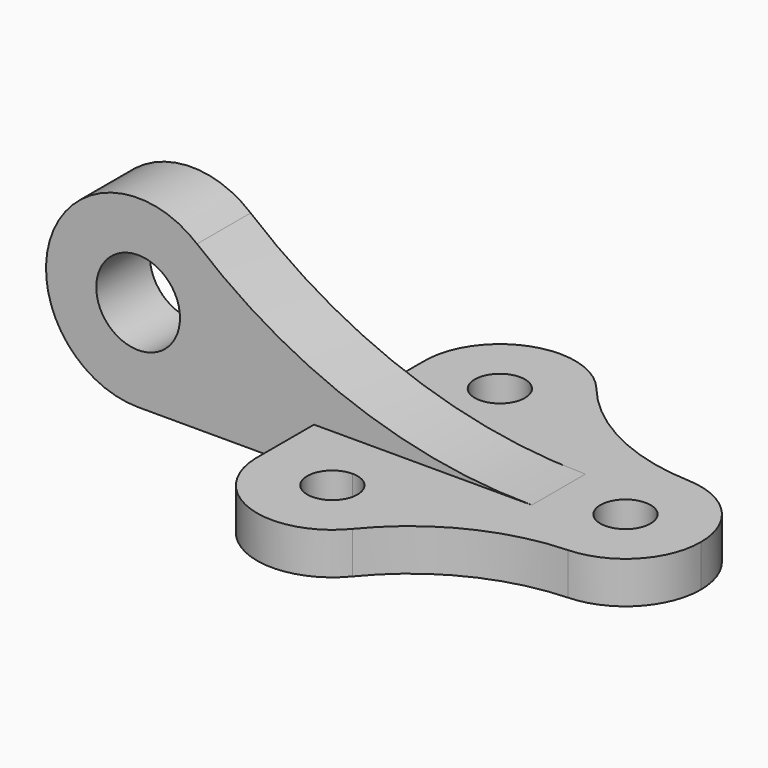
from build123d import *

# Parameters (mm, degrees)
F1_DEPTH = 10
F2_R     = 10
F3_DEPTH = 8


with BuildPart() as f1:
    # F0 (on Top) → F1 (new body)
    with BuildSketch(Plane.XY):
        with BuildLine():
            ThreePointArc((6, 0), (0, 6), (-6, 0))
            ThreePointArc((-6, 0), (0, -6), (6, 0))
        make_face()
        with BuildLine():
            ThreePointArc((0.720724, -17.985565), (12.980236, -12.470505), (18, 0))
            ThreePointArc((18, 0), (12.980236, 12.470505), (0.720724, 17.985565))
            ThreePointArc((0.720724, 17.985565), (-12.470505, 12.980236), (-18, 0))
            ThreePointArc((-18, 0), (-12.470505, -12.980236), (0.720724, -17.985565))
        make_face()
        with BuildLine():
            ThreePointArc((6, 0), (0, -6), (-6, 0))
            ThreePointArc((-6, 0), (0, 6), (6, 0))
        make_face(mode=Mode.SUBTRACT)
        with BuildLine():
            ThreePointArc((-18, 0), (-12.470505, 12.980236), (0.720724, 17.985565))
            ThreePointArc((0.720724, 17.985565), (-19.637945, 23.224109), (-36.043982, 36.367918))
            ThreePointArc((-36.043982, 36.367918), (-33.041104, 31.032896), (-32, 25))
            ThreePointArc((-32, 25), (-37.272078, 12.272078), (-50, 7))
            Line((-50, 7), (-50, 0))
            Line((-50, 0), (-18, 0))
        make_face()
        with BuildLine():
            ThreePointArc((-36.043982, -36.367918), (-19.637945, -23.224109), (0.720724, -17.985565))
            ThreePointArc((0.720724, -17.985565), (-12.470505, -12.980236), (-18, 0))
            Line((-18, 0), (-50, 0))
            Line((-50, 0), (-50, -7))
            ThreePointArc((-50, -7), (-37.272078, -12.272078), (-32, -25))
            ThreePointArc((-32, -25), (-33.041104, -31.032896), (-36.043982, -36.367918))
        make_face()
        with BuildLine():
            ThreePointArc((-44, 25), (-54.242641, 29.242641), (-50, 19))
            ThreePointArc((-50, 19), (-45.757359, 20.757359), (-44, 25))
        make_face()
        with BuildLine():
            ThreePointArc((-32, 25), (-33.041104, 31.032896), (-36.043982, 36.367918))
            ThreePointArc((-36.043982, 36.367918), (-56.308566, 41.858292), (-67.990432, 24.413191))
            ThreePointArc((-67.990432, 24.413191), (-62.518735, 12.066273), (-50, 7))
            ThreePointArc((-50, 7), (-37.272078, 12.272078), (-32, 25))
        make_face()
        with BuildLine():
            ThreePointArc((-44, 25), (-45.757359, 20.757359), (-50, 19))
            ThreePointArc((-50, 19), (-54.242641, 29.242641), (-44, 25))
        make_face(mode=Mode.SUBTRACT)
        with BuildLine():
            ThreePointArc((-44, -25), (-45.757359, -20.757359), (-50, -19))
            ThreePointArc((-50, -19), (-54.242641, -29.242641), (-44, -25))
        make_face()
        with BuildLine():
            ThreePointArc((-67.990432, -25.586809), (-55.755624, -42.054993), (-36.043982, -36.367918))
            ThreePointArc((-36.043982, -36.367918), (-33.041104, -31.032896), (-32, -25))
            ThreePointArc((-32, -25), (-37.272078, -12.272078), (-50, -7))
            ThreePointArc((-50, -7), (-62.518735, -12.066273), (-67.990432, -24.413191))
            Line((-67.990432, -24.413191), (-67.990432, -25.586809))
        make_face()
        with BuildLine():
            ThreePointArc((-44, -25), (-54.242641, -29.242641), (-50, -19))
            ThreePointArc((-50, -19), (-45.757359, -20.757359), (-44, -25))
        make_face(mode=Mode.SUBTRACT)
        with BuildLine():
            Line((-50, -7), (-50, 0))
            Line((-50, 0), (-50, 7))
            ThreePointArc((-50, 7), (-62.518735, 12.066273), (-67.990432, 24.413191))
            Line((-67.990432, 24.413191), (-67.990432, -24.413191))
            ThreePointArc((-67.990432, -24.413191), (-62.518735, -12.066273), (-50, -7))
        make_face()
        with BuildLine():
            ThreePointArc((-67.990432, -24.413191), (-68, -25), (-67.990432, -25.586809))
            Line((-67.990432, -25.586809), (-67.990432, -24.413191))
        make_face()
    extrude(amount=F1_DEPTH)

    # F2 (on Front) → F3 (join, symmetric)
    with BuildSketch(Plane.XZ):
        with BuildLine():
            ThreePointArc((-110, 0), (-94.443651, 6.443651), (-88, 22))
            ThreePointArc((-88, 22), (-90.080579, 31.338987), (-95.928789, 38.911565))
            ThreePointArc((-95.928789, 38.911565), (-130.688818, 29.481496), (-110, 0))
        make_face()
        with Locations((-110, 22)):
            Circle(F2_R, mode=Mode.SUBTRACT)
        with BuildLine():
            ThreePointArc((-95.928789, 38.911565), (-90.080579, 31.338987), (-88, 22))
            ThreePointArc((-88, 22), (-94.443651, 6.443651), (-110, 0))
            Line((-110, 0), (-15.978726, 0))
            Line((-15.978726, 0), (-15.978726, 10))
            ThreePointArc((-15.978726, 10), (-58.487228, 17.449895), (-95.928789, 38.911565))
        make_face()
    extrude(amount=F3_DEPTH, both=True)


solid = f1.part
